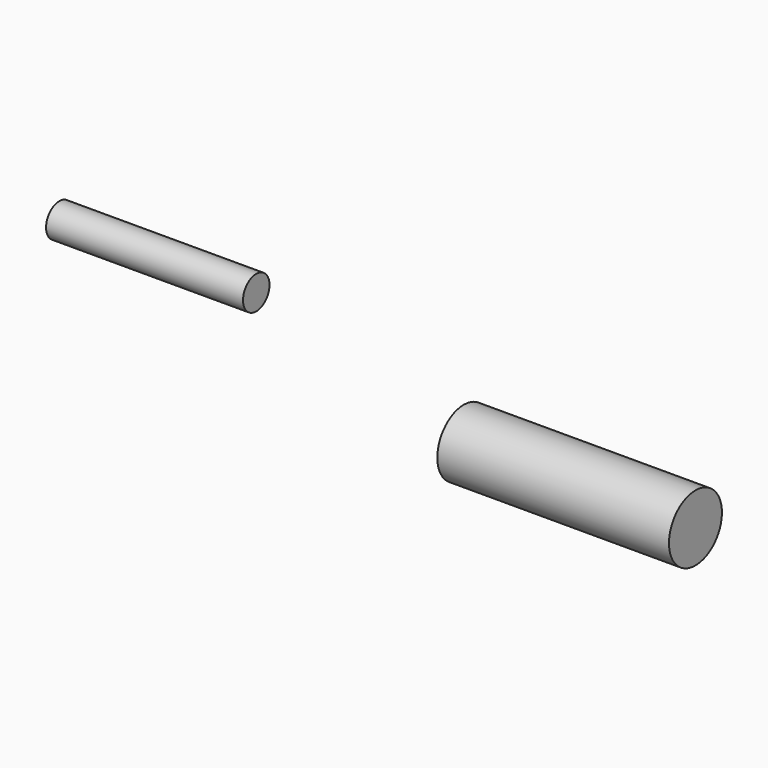
from build123d import *

# Parameters (mm, degrees)
F0_W = 59.508
F0_H = 5
F2_W = 70
F2_H = 10


with BuildPart() as f1:
    # F0 (on Front) → F1 (revolve)
    with BuildSketch(Plane.XZ):
        with Locations((-57.192949, 34.370202)):
            Rectangle(F0_W, F0_H)
    revolve(axis=Axis((-63.539973, 0, 31.870202), (-1, 0, 0)))


with BuildPart() as f3:
    # F2 (on Front) → F3 (revolve)
    with BuildSketch(Plane.XZ):
        with Locations((70.269505, 17.444814)):
            Rectangle(F2_W, F2_H)
    revolve(axis=Axis((70.269505, 0, 12.444814), (1, 0, 0)))


solid = Compound([f1.part, f3.part])
